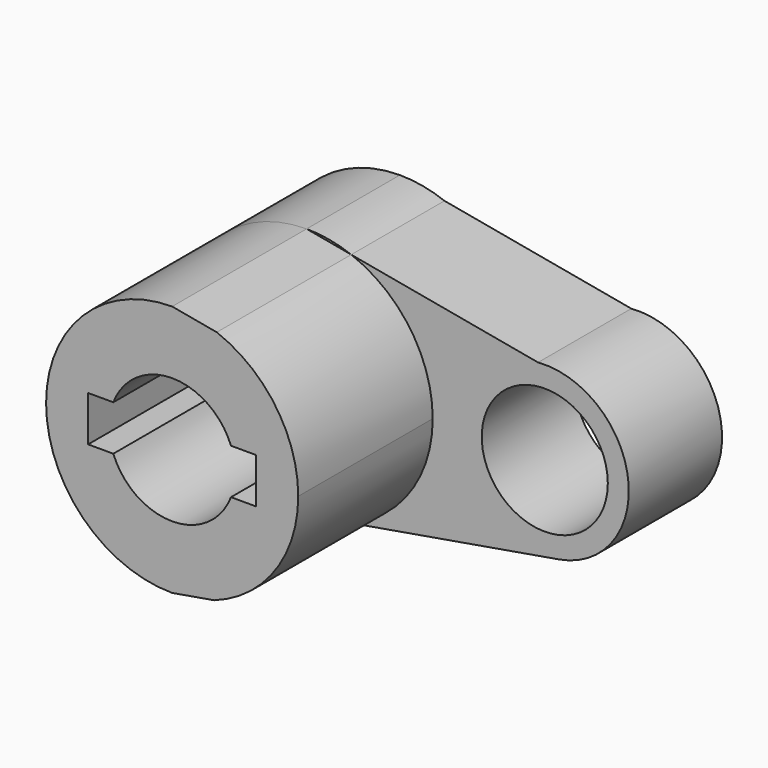
from build123d import *

# Parameters (mm, degrees)
F0_R     = 14.2875
F1_DEPTH = 26.416
F2_DEPTH = 38.1


with BuildPart() as f1:
    # F0 (on Front) → F1 (new body)
    with BuildSketch(Plane.XZ):
        with BuildLine():
            Line((52.443050298, 18.9883024547), (10.1093186571, 26.7269957401))
            ThreePointArc((10.1093186571, 26.7269957401), (23.5096193677, 16.2427960089), (28.575, 0))
            ThreePointArc((28.575, 0), (23.3274655355, -16.5033322905), (9.5121844836, -26.9452959039))
            Line((9.5121844836, -26.9452959039), (57.1919272622, -18.7764181619))
            ThreePointArc((57.1919272622, -18.7764181619), (35.0738540518, -2.3768007581), (52.443050298, 18.9883024547))
        make_face()
        with BuildLine():
            ThreePointArc((73.025, 0), (66.8924079865, 14.0015381623), (52.443050298, 18.9883024547))
            ThreePointArc((52.443050298, 18.9883024547), (35.0738540518, -2.3768007581), (57.1919272622, -18.7764181619))
            ThreePointArc((57.1919272622, -18.7764181619), (68.5383952831, -12.2804730295), (73.025, 0))
        make_face()
        with Locations((53.975, 0)):
            Circle(F0_R, mode=Mode.SUBTRACT)
        with BuildLine():
            ThreePointArc((10.1093186571, 26.7269957401), (5.1384200747, 28.1092024813), (0, 28.575))
            Line((0, 28.575), (10.1093186571, 26.7269957401))
        make_face()
        with BuildLine():
            Line((9.5121844836, -26.9452959039), (0, -28.575))
            ThreePointArc((0, -28.575), (4.8253908933, -28.1646272428), (9.5121844836, -26.9452959039))
        make_face()
        with BuildLine():
            Line((10.1093186571, 26.7269957401), (0, 28.575))
            ThreePointArc((0, 28.575), (-28.575, 0), (0, -28.575))
            Line((0, -28.575), (9.5121844836, -26.9452959039))
            ThreePointArc((9.5121844836, -26.9452959039), (23.3274655355, -16.5033322905), (28.575, 0))
            ThreePointArc((28.575, 0), (23.5096193677, 16.2427960089), (10.1093186571, 26.7269957401))
        make_face()
        with BuildLine():
            ThreePointArc((-13.3347943737, 5.1299040206), (0, 14.2875), (13.3347943737, 5.1299040206))
            Line((13.3347943737, 5.1299040206), (19.05, 5.1299040206))
            Line((19.05, 5.1299040206), (19.05, -5.1299040206))
            Line((19.05, -5.1299040206), (13.3347943737, -5.1299040206))
            ThreePointArc((13.3347943737, -5.1299040206), (0, -14.2875), (-13.3347943737, -5.1299040206))
            Line((-13.3347943737, -5.1299040206), (-19.05, -5.1299040206))
            Line((-19.05, -5.1299040206), (-19.05, 5.1299040206))
            Line((-19.05, 5.1299040206), (-13.3347943737, 5.1299040206))
        make_face(mode=Mode.SUBTRACT)
    extrude(amount=-F1_DEPTH)

    # F0 (on Front) → F2 (join)
    with BuildSketch(Plane.XZ):
        with BuildLine():
            Line((10.1093186571, 26.7269957401), (0, 28.575))
            ThreePointArc((0, 28.575), (-28.575, 0), (0, -28.575))
            Line((0, -28.575), (9.5121844836, -26.9452959039))
            ThreePointArc((9.5121844836, -26.9452959039), (23.3274655355, -16.5033322905), (28.575, 0))
            ThreePointArc((28.575, 0), (23.5096193677, 16.2427960089), (10.1093186571, 26.7269957401))
        make_face()
        with BuildLine():
            ThreePointArc((-13.3347943737, 5.1299040206), (0, 14.2875), (13.3347943737, 5.1299040206))
            Line((13.3347943737, 5.1299040206), (19.05, 5.1299040206))
            Line((19.05, 5.1299040206), (19.05, -5.1299040206))
            Line((19.05, -5.1299040206), (13.3347943737, -5.1299040206))
            ThreePointArc((13.3347943737, -5.1299040206), (0, -14.2875), (-13.3347943737, -5.1299040206))
            Line((-13.3347943737, -5.1299040206), (-19.05, -5.1299040206))
            Line((-19.05, -5.1299040206), (-19.05, 5.1299040206))
            Line((-19.05, 5.1299040206), (-13.3347943737, 5.1299040206))
        make_face(mode=Mode.SUBTRACT)
    extrude(amount=F2_DEPTH)


solid = f1.part
